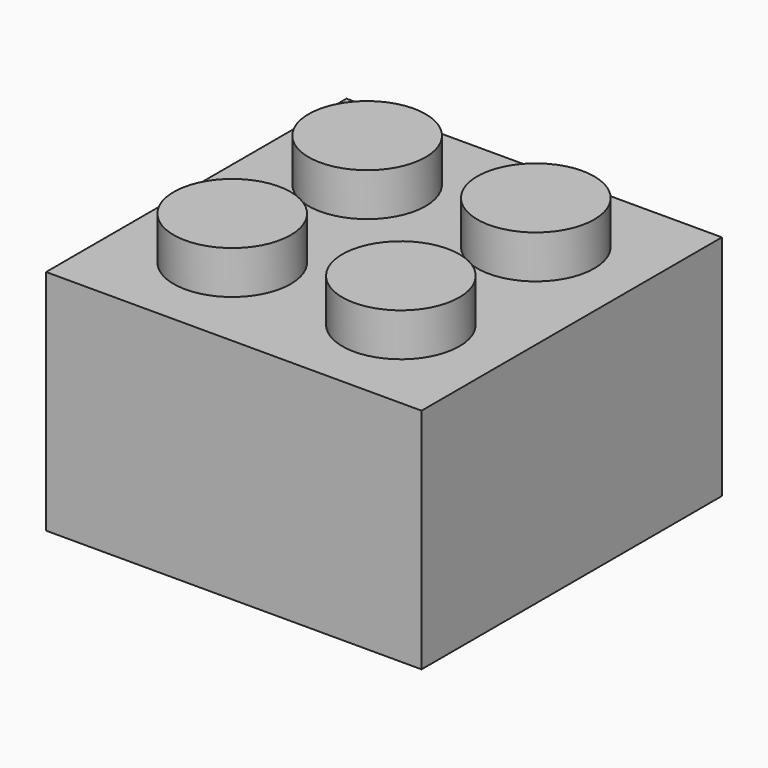
from build123d import *

# Parameters (mm, degrees)
F0_W     = 15.494
F0_H     = 15.494
F1_DEPTH = 9.398
F2_R     = 2.413
F3_DEPTH = 1.778


with BuildPart() as f1:
    # F0 (on Top) → F1 (new body)
    with BuildSketch(Plane.XY):
        Rectangle(F0_W, F0_H)
    extrude(amount=F1_DEPTH)

    # F2 (on face) → F3 (join)
    with BuildSketch(Plane.XY.offset(9.398)):
        with Locations((-3.4798, 3.4798)):
            Circle(F2_R)
        with Locations((3.4798, 3.4798)):
            Circle(F2_R)
        with Locations((3.4798, -3.4798)):
            Circle(F2_R)
        with Locations((-3.4798, -3.4798)):
            Circle(F2_R)
    extrude(amount=F3_DEPTH)


solid = f1.part
